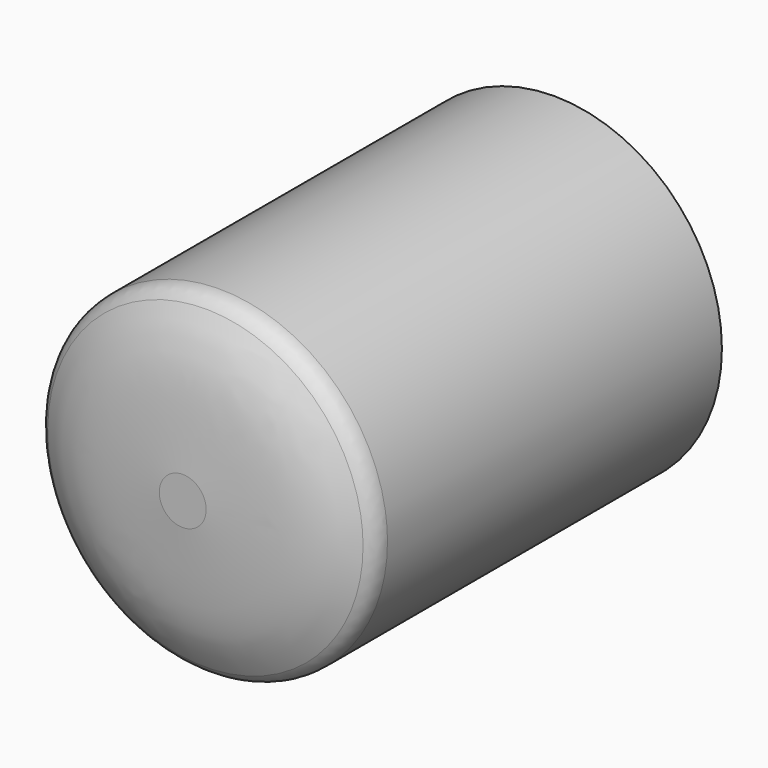
from build123d import *

# Parameters (mm, degrees)
F2_R = 5


with BuildPart() as f1:
    # F0 (on Top) → F1 (revolve)
    with BuildSketch(Plane.XY):
        with BuildLine():
            Line((40.5, 0), (0, 0))
            Line((0, 0), (0, -112))
            Line((0, -112), (5.654847, -112))
            add(Edge.make_bspline(
                [(40.5, -103.65244), (29.529134, -110.705133), (24.631429, -110.705133), (5.654847, -112)],
                knots=[0, 0, 0, 0, 35.831082, 35.831082, 35.831082, 35.831082], degree=3))
            Line((40.5, -103.65244), (40.5, 0))
        make_face()
    revolve(axis=Axis((0, -56, 0), (0, 1, 0)))

    # F2
    f2_edges = [f1.edges().sort_by_distance(p)[0] for p in [
        (-40.5, -103.65244, 0),
    ]]
    fillet(f2_edges, radius=F2_R)


solid = f1.part
